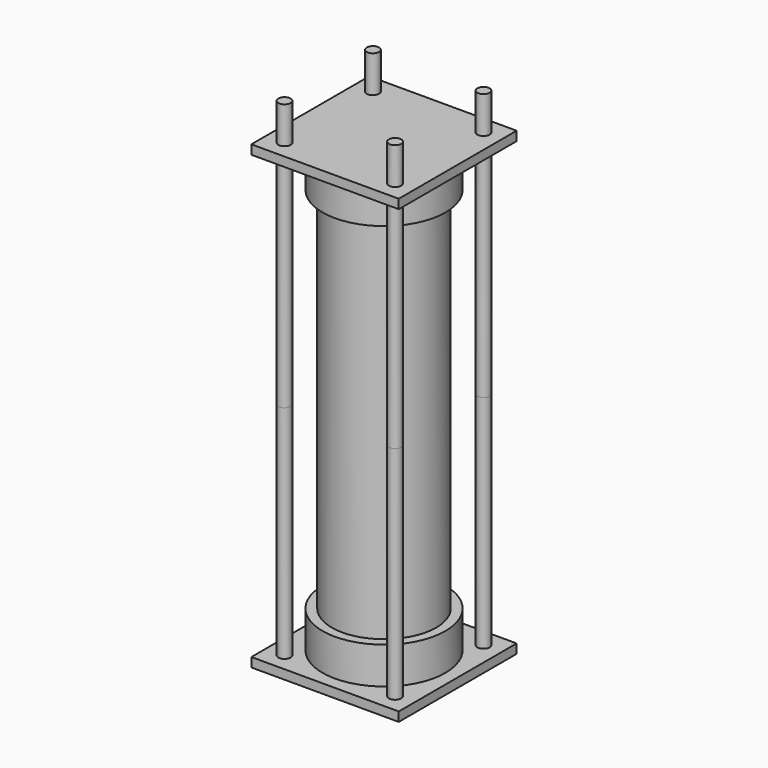
from build123d import *

# Parameters (mm, degrees)
F0_W      = 304.8
F0_H      = 304.8
F1_DEPTH  = 19.05
F2_R      = 127
F3_DEPTH  = 76.2
F4_T      = -19.05
F5_R      = 12.7
F6_DEPTH  = 457.2
F7_R      = 107.95
F8_DEPTH  = 381
F10_R     = 107.95
F11_DEPTH = 381
F12_R     = 12.7
F13_DEPTH = 76.2


with BuildPart() as f1:
    # F0 (on Top) → F1 (new body)
    with BuildSketch(Plane.XY):
        with Locations((152.4, 152.4)):
            Rectangle(F0_W, F0_H)
    extrude(amount=F1_DEPTH)

    # F2 (on face) → F3 (join)
    with BuildSketch(Plane.XY.offset(19.05)):
        with Locations((152.4, 152.4)):
            Circle(F2_R)
    extrude(amount=F3_DEPTH)

    # F4
    f4_openings = [f1.faces().sort_by_distance(p)[0] for p in [
        (152.4, 152.4, 95.25),
    ]]
    offset(amount=F4_T, openings=f4_openings, kind=Kind.INTERSECTION)

    # F5 (on face) → F6 (join)
    with BuildSketch(Plane.XY.offset(19.05)):
        with Locations((266.7, 266.7)):
            Circle(F5_R)
        with Locations((266.7, 38.1)):
            Circle(F5_R)
        with Locations((38.1, 266.7)):
            Circle(F5_R)
        with Locations((38.1, 38.1)):
            Circle(F5_R)
    extrude(amount=F6_DEPTH)


with BuildPart() as f8:
    # F7 (on face) → F8 (new body)
    with BuildSketch(Plane.XY.offset(95.25)):
        with Locations((152.4, 152.4)):
            Circle(F7_R)
    extrude(amount=F8_DEPTH)



with BuildPart() as f9_1:
    # F9: instance of F1
    add(f1.part.mirror(Plane(origin=(152.4, 152.4, 476.25), x_dir=(1, 0, 0), z_dir=(0, 0, 1))))


with BuildPart() as f8_1:
    add(f8.part)

    add(f9_1.part)  # F11 merges F9_1
    # F10 (on face) → F11 (join)
    with BuildSketch(Plane.XY.offset(476.25)):
        with Locations((152.4, 152.4)):
            Circle(F10_R)
    extrude(amount=F11_DEPTH)

    # F12 (on face) → F13 (join)
    with BuildSketch(Plane.XY.offset(952.5)):
        with Locations((38.1, 266.7)):
            Circle(F12_R)
        with Locations((38.1, 38.1)):
            Circle(F12_R)
        with Locations((266.7, 266.7)):
            Circle(F12_R)
        with Locations((266.7, 38.1)):
            Circle(F12_R)
    extrude(amount=F13_DEPTH)


solid = Compound([f1.part, f8_1.part])
